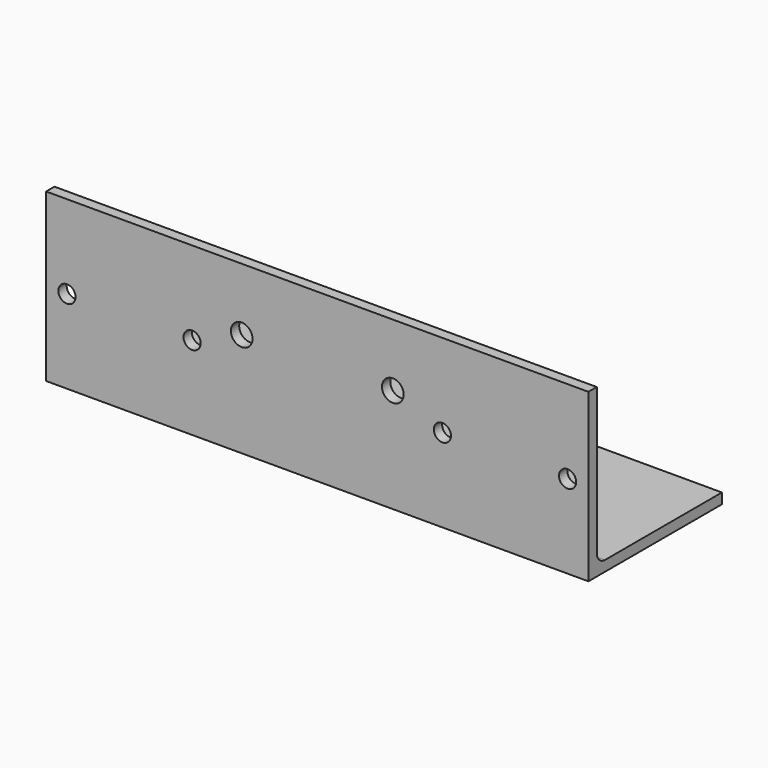
from build123d import *

# Parameters (mm, degrees)
F1_DEPTH = 165.1
F2_R     = 2.6162
F2_R_2   = 3.302
F3_DEPTH = 50.801


with BuildPart() as f1:
    # F0 (on Right) → F1 (new body)
    with BuildSketch(Plane.YZ):
        with BuildLine():
            Line((0, -44.45), (0, 0))
            Line((0, 0), (-3.175, 0))
            Line((-3.175, 0), (-3.175, -50.8))
            Line((-3.175, -50.8), (47.625, -50.8))
            Line((47.625, -50.8), (47.625, -47.625))
            Line((47.625, -47.625), (3.175, -47.625))
            ThreePointArc((3.175, -47.625), (0.929936, -46.695064), (0, -44.45))
        make_face()
    extrude(amount=-F1_DEPTH)

    # F2 (on face) → F3 (cut, through all)
    with BuildSketch(Plane.XZ.offset(3.175)):
        with Locations((-158.75, -25.4)):
            Circle(F2_R)
        with Locations((-120.65, -25.4)):
            Circle(F2_R)
        with Locations((-44.45, -25.4)):
            Circle(F2_R)
        with Locations((-6.35, -25.4)):
            Circle(F2_R)
        with Locations((-105.5497, -19.05)):
            Circle(F2_R_2)
        with Locations((-59.5503, -19.05)):
            Circle(F2_R_2)
    extrude(amount=-F3_DEPTH, mode=Mode.SUBTRACT)


solid = f1.part
